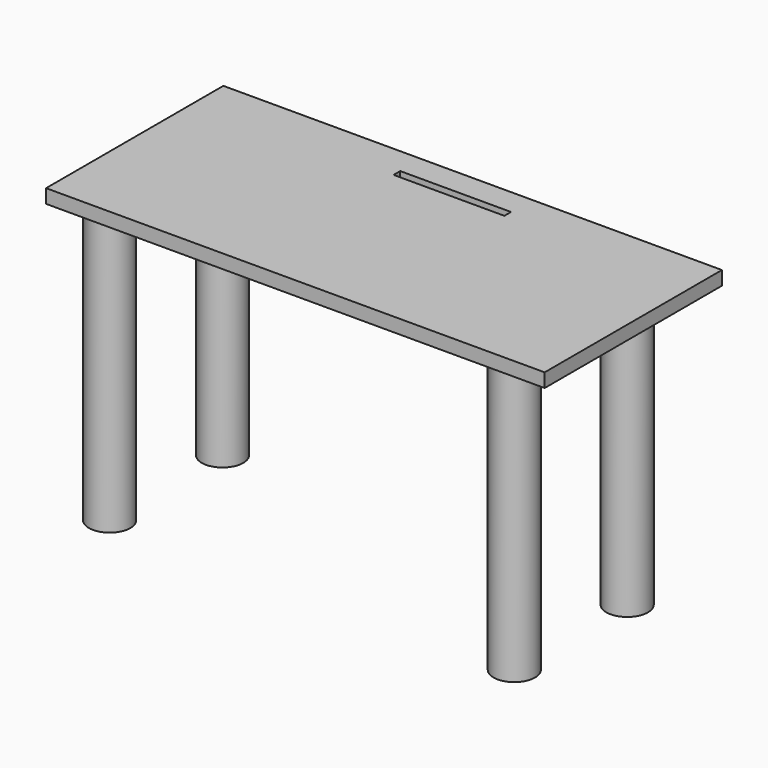
from build123d import *

# Parameters (mm, degrees)
F1_DEPTH = 101.6
F0_W     = 180
F0_H     = 80
F2_DEPTH = 5
F3_W     = 40
F3_H     = 3
F4_DEPTH = 25.4


with BuildPart() as f1:
    # F0 (on Top) → F1 (new body)
    with BuildSketch(Plane.XY):
        with BuildLine():
            ThreePointArc((-61.8096877346, -59.8), (-67.1129885935, -72.6033008589), (-54.3096877346, -67.3))
            Line((-54.3096877346, -67.3), (-61.8096877346, -67.3))
            Line((-61.8096877346, -67.3), (-61.8096877346, -59.8))
        make_face()
        with BuildLine():
            Line((-61.8096877346, -67.3), (-54.3096877346, -67.3))
            ThreePointArc((-54.3096877346, -67.3), (-56.5063868757, -61.9966991411), (-61.8096877346, -59.8))
            Line((-61.8096877346, -59.8), (-61.8096877346, -67.3))
        make_face()
    extrude(amount=-F1_DEPTH)


with BuildPart() as f1b:
    # F0 (on Top) → F1, piece 2 (new body)
    with BuildSketch(Plane.XY):
        with BuildLine():
            Line((84.2878028534, -67.3), (76.7878028534, -67.3))
            ThreePointArc((76.7878028534, -67.3), (84.2878028534, -74.8), (91.7878028534, -67.3))
            ThreePointArc((91.7878028534, -67.3), (89.5911037123, -61.9966991411), (84.2878028534, -59.8))
            Line((84.2878028534, -59.8), (84.2878028534, -67.3))
        make_face()
        with BuildLine():
            ThreePointArc((84.2878028534, -59.8), (78.9845019945, -61.9966991411), (76.7878028534, -67.3))
            Line((76.7878028534, -67.3), (84.2878028534, -67.3))
            Line((84.2878028534, -67.3), (84.2878028534, -59.8))
        make_face()
    extrude(amount=-F1_DEPTH)


with BuildPart() as f1c:
    # F0 (on Top) → F1, piece 3 (new body)
    with BuildSketch(Plane.XY):
        with BuildLine():
            Line((84.2878028534, -16.3655914366), (84.2878028534, -23.8655914366))
            ThreePointArc((84.2878028534, -23.8655914366), (89.5911037123, -21.6688922955), (91.7878028534, -16.3655914366))
            ThreePointArc((91.7878028534, -16.3655914366), (84.2878028534, -8.8655914366), (76.7878028534, -16.3655914366))
            Line((76.7878028534, -16.3655914366), (84.2878028534, -16.3655914366))
        make_face()
        with BuildLine():
            ThreePointArc((76.7878028534, -16.3655914366), (78.9845019945, -21.6688922955), (84.2878028534, -23.8655914366))
            Line((84.2878028534, -23.8655914366), (84.2878028534, -16.3655914366))
            Line((84.2878028534, -16.3655914366), (76.7878028534, -16.3655914366))
        make_face()
    extrude(amount=-F1_DEPTH)


with BuildPart() as f1d:
    # F0 (on Top) → F1, piece 4 (new body)
    with BuildSketch(Plane.XY):
        with BuildLine():
            ThreePointArc((-54.3096877346, -16.3655914366), (-67.1129885935, -11.0622905777), (-61.8096877346, -23.8655914366))
            Line((-61.8096877346, -23.8655914366), (-61.8096877346, -16.3655914366))
            Line((-61.8096877346, -16.3655914366), (-54.3096877346, -16.3655914366))
        make_face()
        with BuildLine():
            Line((-61.8096877346, -16.3655914366), (-61.8096877346, -23.8655914366))
            ThreePointArc((-61.8096877346, -23.8655914366), (-56.5063868757, -21.6688922955), (-54.3096877346, -16.3655914366))
            Line((-54.3096877346, -16.3655914366), (-61.8096877346, -16.3655914366))
        make_face()
    extrude(amount=-F1_DEPTH)


with BuildPart() as f2:
    # F0 (on Top) → F2 (new body)
    with BuildSketch(Plane.XY):
        with Locations((15.3998310249, -40)):
            Rectangle(F0_W, F0_H)
        with BuildLine():
            Line((76.7878028534, -67.3), (-54.3096877346, -67.3))
            ThreePointArc((-54.3096877346, -67.3), (-67.1129885935, -72.6033008589), (-61.8096877346, -59.8))
            Line((-61.8096877346, -59.8), (-61.8096877346, -23.8655914366))
            ThreePointArc((-61.8096877346, -23.8655914366), (-67.1129885935, -11.0622905777), (-54.3096877346, -16.3655914366))
            Line((-54.3096877346, -16.3655914366), (76.7878028534, -16.3655914366))
            ThreePointArc((76.7878028534, -16.3655914366), (84.2878028534, -8.8655914366), (91.7878028534, -16.3655914366))
            ThreePointArc((91.7878028534, -16.3655914366), (89.5911037123, -21.6688922955), (84.2878028534, -23.8655914366))
            Line((84.2878028534, -23.8655914366), (84.2878028534, -59.8))
            ThreePointArc((84.2878028534, -59.8), (89.5911037123, -61.9966991411), (91.7878028534, -67.3))
            ThreePointArc((91.7878028534, -67.3), (84.2878028534, -74.8), (76.7878028534, -67.3))
        make_face(mode=Mode.SUBTRACT)
        with BuildLine():
            ThreePointArc((-54.3096877346, -16.3655914366), (-67.1129885935, -11.0622905777), (-61.8096877346, -23.8655914366))
            Line((-61.8096877346, -23.8655914366), (-61.8096877346, -16.3655914366))
            Line((-61.8096877346, -16.3655914366), (-54.3096877346, -16.3655914366))
        make_face()
        with BuildLine():
            ThreePointArc((76.7878028534, -16.3655914366), (78.9845019945, -21.6688922955), (84.2878028534, -23.8655914366))
            Line((84.2878028534, -23.8655914366), (84.2878028534, -16.3655914366))
            Line((84.2878028534, -16.3655914366), (76.7878028534, -16.3655914366))
        make_face()
        with BuildLine():
            Line((84.2878028534, -67.3), (76.7878028534, -67.3))
            ThreePointArc((76.7878028534, -67.3), (84.2878028534, -74.8), (91.7878028534, -67.3))
            ThreePointArc((91.7878028534, -67.3), (89.5911037123, -61.9966991411), (84.2878028534, -59.8))
            Line((84.2878028534, -59.8), (84.2878028534, -67.3))
        make_face()
        with BuildLine():
            Line((-61.8096877346, -67.3), (-54.3096877346, -67.3))
            ThreePointArc((-54.3096877346, -67.3), (-56.5063868757, -61.9966991411), (-61.8096877346, -59.8))
            Line((-61.8096877346, -59.8), (-61.8096877346, -67.3))
        make_face()
        with BuildLine():
            Line((84.2878028534, -16.3655914366), (84.2878028534, -23.8655914366))
            ThreePointArc((84.2878028534, -23.8655914366), (89.5911037123, -21.6688922955), (91.7878028534, -16.3655914366))
            ThreePointArc((91.7878028534, -16.3655914366), (84.2878028534, -8.8655914366), (76.7878028534, -16.3655914366))
            Line((76.7878028534, -16.3655914366), (84.2878028534, -16.3655914366))
        make_face()
        with BuildLine():
            ThreePointArc((-61.8096877346, -59.8), (-67.1129885935, -72.6033008589), (-54.3096877346, -67.3))
            Line((-54.3096877346, -67.3), (-61.8096877346, -67.3))
            Line((-61.8096877346, -67.3), (-61.8096877346, -59.8))
        make_face()
        with BuildLine():
            Line((-61.8096877346, -16.3655914366), (-61.8096877346, -23.8655914366))
            ThreePointArc((-61.8096877346, -23.8655914366), (-56.5063868757, -21.6688922955), (-54.3096877346, -16.3655914366))
            Line((-54.3096877346, -16.3655914366), (-61.8096877346, -16.3655914366))
        make_face()
        with BuildLine():
            ThreePointArc((84.2878028534, -59.8), (78.9845019945, -61.9966991411), (76.7878028534, -67.3))
            Line((76.7878028534, -67.3), (84.2878028534, -67.3))
            Line((84.2878028534, -67.3), (84.2878028534, -59.8))
        make_face()
        with BuildLine():
            ThreePointArc((-61.8096877346, -59.8), (-56.5063868757, -61.9966991411), (-54.3096877346, -67.3))
            Line((-54.3096877346, -67.3), (76.7878028534, -67.3))
            ThreePointArc((76.7878028534, -67.3), (78.9845019945, -61.9966991411), (84.2878028534, -59.8))
            Line((84.2878028534, -59.8), (84.2878028534, -23.8655914366))
            ThreePointArc((84.2878028534, -23.8655914366), (78.9845019945, -21.6688922955), (76.7878028534, -16.3655914366))
            Line((76.7878028534, -16.3655914366), (-54.3096877346, -16.3655914366))
            ThreePointArc((-54.3096877346, -16.3655914366), (-56.5063868757, -21.6688922955), (-61.8096877346, -23.8655914366))
            Line((-61.8096877346, -23.8655914366), (-61.8096877346, -59.8))
        make_face()
    extrude(amount=F2_DEPTH)

    # F3 (on face) → F4 (cut)
    with BuildSketch(Plane.XY.offset(5)):
        with Locations((16.8331203902, -10.9774959274)):
            Rectangle(F3_W, F3_H)
    extrude(amount=-F4_DEPTH, mode=Mode.SUBTRACT)


solid = Compound([f1.part, f1b.part, f1c.part, f1d.part, f2.part])
